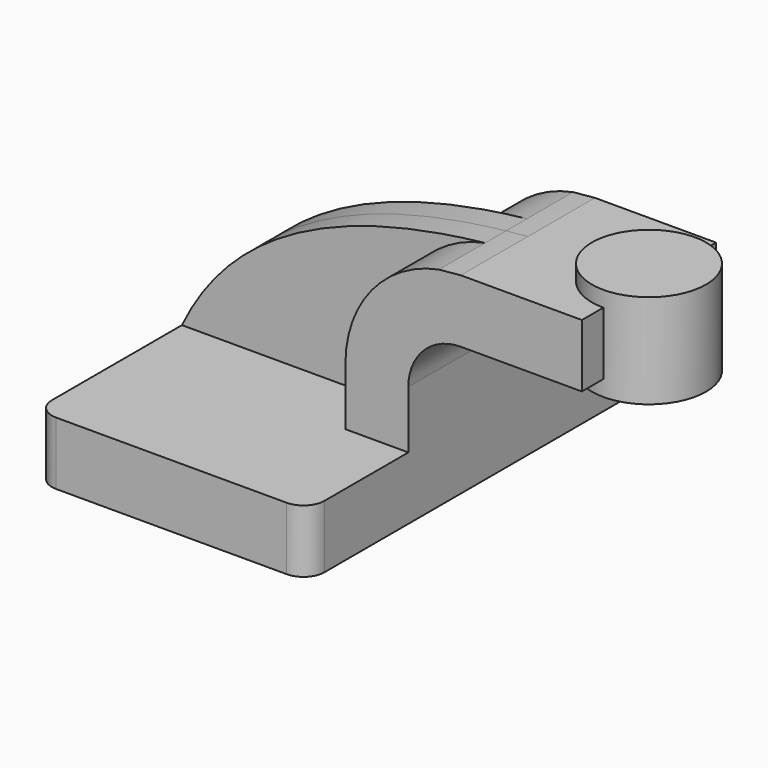
from build123d import *

# Parameters (mm, degrees)
F1_DEPTH = 63.5
F0_W     = 33.5181157214
F0_H     = 19.05
F2_DEPTH = 25.4
F3_DEPTH = 7.9375
F5_R     = 6.35


with BuildPart() as f1:
    # F0 (on Front) → F1 (new body, symmetric)
    with BuildSketch(Plane.XZ):
        Polygon((22.225, 9.525), (-41.275, 9.525), (-41.275, -9.525), (41.275, -9.525), (41.275, 9.525), align=None)
    extrude(amount=F1_DEPTH, both=True)

    # F0 (on Front) → F2 (join, symmetric)
    with BuildSketch(Plane.XZ):
        with Locations((77.0840578607, 52.4002)):
            Rectangle(F0_W, F0_H)
        with BuildLine():
            Line((22.225, 27.0002), (22.225, 9.525))
            Line((22.225, 9.525), (41.275, 9.525))
            Line((41.275, 9.525), (41.275, 27.0002))
            ThreePointArc((41.275, 27.0002), (45.9246798487, 38.2255201513), (57.15, 42.8752))
            Line((57.15, 42.8752), (60.325, 42.8752))
            Line((60.325, 42.8752), (60.325, 61.9252))
            Line((60.325, 61.9252), (57.15, 61.9252))
            add(Edge.make_bspline(
                [(50.5323076447, 61.2924990319), (52.693888521, 61.5271927867), (54.899505123, 61.738267049), (57.15, 61.9252)],
                knots=[107.1136282474, 107.1136282474, 107.1136282474, 107.1136282474, 111.5045361635, 111.5045361635, 111.5045361635, 111.5045361635], degree=3))
            ThreePointArc((50.5323076447, 61.2924990319), (30.2160202485, 49.2334264808), (22.225, 27.0002))
        make_face()
    extrude(amount=F2_DEPTH, both=True)

    # F0 (on Front) → F3 (join, symmetric)
    with BuildSketch(Plane.XZ):
        with BuildLine():
            add(Edge.make_bspline(
                [(-41.275, 9.525), (-28.7235843185, 35.7864015461), (-2.1981924793, 55.5672822677), (50.5323076447, 61.2924990319)],
                knots=[0, 0, 0, 0, 107.1136282474, 107.1136282474, 107.1136282474, 107.1136282474], degree=3))
            Line((-41.275, 9.525), (22.225, 9.525))
            Line((22.225, 9.525), (22.225, 27.0002))
            ThreePointArc((22.225, 27.0002), (30.2160202485, 49.2334264808), (50.5323076447, 61.2924990319))
        make_face()
    extrude(amount=F3_DEPTH, both=True)

    # F5
    f5_edges = [f1.edges().sort_by_distance(p)[0] for p in [
        (-41.275, -63.5, 0),
        (41.275, -63.5, 0),
        (41.275, 63.5, 0),
        (-41.275, 63.5, 0),
    ]]
    fillet(f5_edges, radius=F5_R)


with BuildPart() as f4:
    # F0 (on Front) → F4 (revolve)
    with BuildSketch(Plane.XZ):
        Polygon((93.8431157214, 66.675), (93.8431157214, 61.9252), (93.8431157214, 42.8752), (93.8431157214, 38.1), (111.125, 38.1), (111.125, 66.675), align=None)
    revolve(axis=Axis((93.8431157214, 0, 64.3001), (0, 0, 1)))


solid = Compound([f1.part, f4.part])
